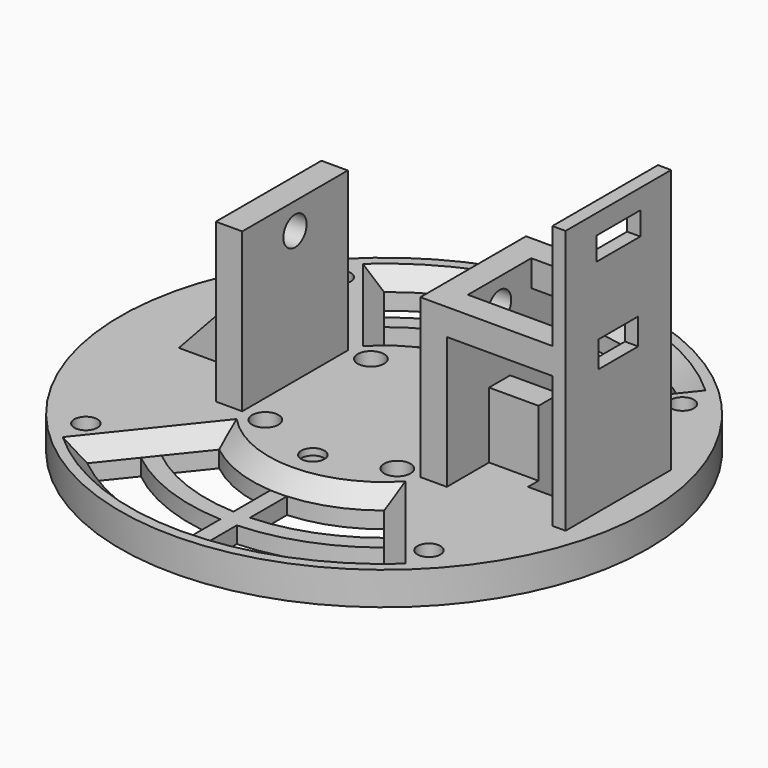
from build123d import *

# Parameters (mm, degrees)
SKETCH_R        = 40
SKETCH_R_2      = 1.7
PAD_DEPTH       = 5
POCKET_DEPTH    = 231.496033
CHAMFER_SIZE    = 2.5
SKETCH002_W     = 4
SKETCH002_H     = 20
PAD001_DEPTH    = 24
SKETCH003_R     = 2.2
POCKET001_DEPTH = 57.501
SKETCH004_R     = 1.75
POCKET002_DEPTH = 29.001
SKETCH005_R     = 2
POCKET003_DEPTH = 4
SKETCH006_R     = 2
POCKET004_DEPTH = 4
PAD002_DEPTH    = 2.5
SKETCH008_R     = 1.75
POCKET005_DEPTH = 262.590383
SKETCH009_R     = 2.85
POCKET006_DEPTH = 3
SKETCH015_W     = 4
SKETCH015_H     = 13
PAD003_DEPTH    = 12
POCKET007_DEPTH = 4
SKETCH017_W     = 2
SKETCH017_H     = 20
PAD004_DEPTH    = 40
SKETCH018_W     = 4
SKETCH018_H     = 10
PAD005_DEPTH    = 16
SKETCH019_W     = 16
SKETCH019_H     = 4
PAD006_DEPTH    = 4
SKETCH020_W     = 8.3
SKETCH020_H     = 3.5
SKETCH020_W_2   = 7.5
SKETCH020_H_2   = 4
POCKET008_DEPTH = 2
SKETCH021_W     = 4
SKETCH021_H     = 8
POCKET009_DEPTH = 15.001


with BuildPart() as part:
    # Sketch → Pad (new body)
    with BuildSketch(Plane.XY):
        Circle(SKETCH_R)
        with Locations((10, 10)):
            Circle(SKETCH_R_2, mode=Mode.SUBTRACT)
        with Locations((-10, 10)):
            Circle(SKETCH_R_2, mode=Mode.SUBTRACT)
        with Locations((-10, -10)):
            Circle(SKETCH_R_2, mode=Mode.SUBTRACT)
        with Locations((10, -10)):
            Circle(SKETCH_R_2, mode=Mode.SUBTRACT)
    extrude(amount=PAD_DEPTH)

    # Sketch001 → Pocket (cut, through all)
    with BuildSketch(Plane(origin=(0, 0, 0), x_dir=(1, 0, 0), z_dir=(0, 0, -1))):
        with BuildLine():
            ThreePointArc((22.5, 28.102491), (0, 36), (-22.5, 28.102491))
            Line((-22.5, 28.102491), (-12.5, 15.612495))
            ThreePointArc((12.5, 15.612495), (0, 20), (-12.5, 15.612495))
            Line((22.5, 28.102491), (12.5, 15.612495))
        make_face()
    pocket = extrude(amount=-POCKET_DEPTH, mode=Mode.SUBTRACT)

    # Mirrored: Pocket across Sketch001 H_Axis
    add(pocket.mirror(Plane(origin=(0, 0, 0), x_dir=(0, 0, -1), z_dir=(0, -1, 0))), mode=Mode.SUBTRACT)

    # Chamfer
    chamfer_edges = [part.edges().sort_by_distance(p)[0] for p in [
        (0, 20, 5),
        (17.5, 21.857493, 5),
        (0, 36, 5),
        (-17.5, 21.857493, 5),
        (-17.5, -21.857493, 5),
        (17.5, -21.857493, 5),
        (0, -20, 5),
        (0, -36, 5),
    ]]
    chamfer(chamfer_edges, length=CHAMFER_SIZE)

    # Sketch002 → Pad001 (new body)
    with BuildSketch(Plane.XY.offset(5)):
        with Locations((15.5, 0)):
            Rectangle(SKETCH002_W, SKETCH002_H)
        with Locations((-15.5, 0)):
            Rectangle(SKETCH002_W, SKETCH002_H)
    extrude(amount=PAD001_DEPTH)

    # Sketch003 → Pocket001 (cut, through all)
    with BuildSketch(Plane(origin=(-17.5, 0, 0), x_dir=(0, -1, 0), z_dir=(-1, 0, 0))):
        with Locations((0, 25)):
            Circle(SKETCH003_R)
    extrude(amount=-POCKET001_DEPTH, mode=Mode.SUBTRACT)

    # Sketch004 → Pocket002 (cut, through all)
    with BuildSketch(Plane(origin=(0, 0, 0), x_dir=(1, 0, 0), z_dir=(0, 0, -1))):
        with Locations((0, 13.5)):
            Circle(SKETCH004_R)
        with Locations((0, -13.5)):
            Circle(SKETCH004_R)
    extrude(amount=-POCKET002_DEPTH, mode=Mode.SUBTRACT)

    # Sketch005 → Pocket003 (cut)
    with BuildSketch(Plane.XY.offset(5)):
        with Locations((-10, 10)):
            Circle(SKETCH005_R)
        with Locations((10, 10)):
            Circle(SKETCH005_R)
        with Locations((10, -10)):
            Circle(SKETCH005_R)
        with Locations((-10, -10)):
            Circle(SKETCH005_R)
    extrude(amount=-POCKET003_DEPTH, mode=Mode.SUBTRACT)

    # Sketch006 → Pocket004 (cut)
    with BuildSketch(Plane(origin=(0, 0, 0), x_dir=(1, 0, 0), z_dir=(0, 0, -1))):
        with Locations((0, 13.5)):
            Circle(SKETCH006_R)
        with Locations((0, -13.5)):
            Circle(SKETCH006_R)
    extrude(amount=-POCKET004_DEPTH, mode=Mode.SUBTRACT)

    # Sketch007 → Pad002 (new body)
    with BuildSketch(Plane(origin=(0, 0, 0), x_dir=(1, 0, 0), z_dir=(0, 0, -1))):
        with BuildLine():
            ThreePointArc((16.875, 21.076868), (9.529651, 25.262339), (1.25, 26.971049))
            Line((1.25, 26.971049), (1.25, 19.960899))
            Line((-1.25, 19.960899), (1.25, 19.960899))
            Line((-1.25, 26.971049), (-1.25, 19.960899))
            ThreePointArc((-1.25, 26.971049), (-9.529651, 25.262339), (-16.875, 21.076868))
            Line((-18.4375, 23.02843), (-16.875, 21.076868))
            ThreePointArc((-1.25, 29.473505), (-10.357807, 27.621836), (-18.4375, 23.02843))
            Line((-1.25, 35.978292), (-1.25, 29.473505))
            ThreePointArc((1.25, 35.978292), (0, 36), (-1.25, 35.978292))
            Line((1.25, 35.978292), (1.25, 29.473505))
            ThreePointArc((18.4375, 23.02843), (10.357807, 27.621836), (1.25, 29.473505))
            Line((18.4375, 23.02843), (16.875, 21.076868))
        make_face()
    pad002 = extrude(amount=-PAD002_DEPTH)

    # Mirrored001: Pad002 across Sketch007 H_Axis
    add(pad002.mirror(Plane(origin=(0, 0, 0), x_dir=(0, 0, -1), z_dir=(0, -1, 0))))

    # Sketch008 → Pocket005 (cut, through all)
    with BuildSketch(Plane(origin=(0, 0, 0), x_dir=(1, 0, 0), z_dir=(0, 0, -1))):
        with Locations((26, 24)):
            Circle(SKETCH008_R)
        with Locations((26, -24)):
            Circle(SKETCH008_R)
    pocket005 = extrude(amount=-POCKET005_DEPTH, mode=Mode.SUBTRACT)

    # Mirrored002: Pocket005 across Sketch008 V_Axis
    add(pocket005.mirror(Plane(origin=(0, 0, 0), x_dir=(0, 0, -1), z_dir=(1, 0, 0))), mode=Mode.SUBTRACT)

    # Sketch009 → Pocket006 (cut)
    with BuildSketch(Plane(origin=(0, 0, 0), x_dir=(1, 0, 0), z_dir=(0, 0, -1))):
        with Locations((-26, 24)):
            Circle(SKETCH009_R)
        with Locations((-26, -24)):
            Circle(SKETCH009_R)
        with Locations((26, -24)):
            Circle(SKETCH009_R)
        with Locations((26, 24)):
            Circle(SKETCH009_R)
    extrude(amount=-POCKET006_DEPTH, mode=Mode.SUBTRACT)

    # Sketch015 → Pad003 (new body)
    with BuildSketch(Plane(origin=(-17.5, 0, 0), x_dir=(0, -1, 0), z_dir=(-1, 0, 0))):
        with Locations((0, 11.5)):
            Rectangle(SKETCH015_W, SKETCH015_H)
    extrude(amount=PAD003_DEPTH)

    # Sketch016 → Pocket007 (cut)
    with BuildSketch(Plane(origin=(0, 2, 0), x_dir=(-1, 0, 0), z_dir=(0, 1, 0))):
        Polygon((17.5, 18), (29.5, 18), (29.5, 5), align=None)
    extrude(amount=-POCKET007_DEPTH, mode=Mode.SUBTRACT)

    # Sketch017 → Pad004 (new body)
    with BuildSketch(Plane.XY.offset(5)):
        with Locations((34.5, 0)):
            Rectangle(SKETCH017_W, SKETCH017_H)
    extrude(amount=PAD004_DEPTH)

    # Sketch018 → Pad005 (new body)
    with BuildSketch(Plane.YZ.offset(17.5)):
        with Locations((0, 10)):
            Rectangle(SKETCH018_W, SKETCH018_H)
    extrude(amount=PAD005_DEPTH)

    # Sketch019 → Pad006 (new body)
    with BuildSketch(Plane.XY.offset(29)):
        with Locations((25.5, -8)):
            Rectangle(SKETCH019_W, SKETCH019_H)
        with Locations((25.5, 8)):
            Rectangle(SKETCH019_W, SKETCH019_H)
    extrude(amount=-PAD006_DEPTH)

    # Sketch020 → Pocket008 (cut)
    with BuildSketch(Plane.YZ.offset(35.5)):
        with Locations((0, 40.25)):
            Rectangle(SKETCH020_W, SKETCH020_H)
        with Locations((0, 26)):
            Rectangle(SKETCH020_W_2, SKETCH020_H_2)
    extrude(amount=-POCKET008_DEPTH, mode=Mode.SUBTRACT)

    # Sketch021 → Pocket009 (cut, through all)
    with BuildSketch(Plane.XY.offset(15)):
        with Locations((27, 0)):
            Rectangle(SKETCH021_W, SKETCH021_H)
    extrude(amount=-POCKET009_DEPTH, mode=Mode.SUBTRACT)


solid = part.part
